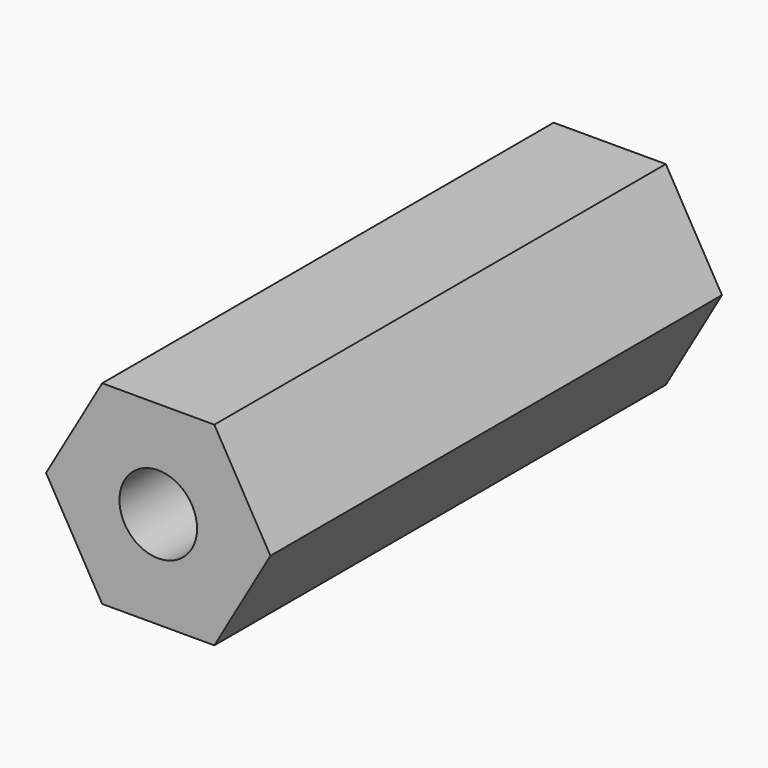
from build123d import *

# Parameters (mm, degrees)
SKETCH_R  = 1.1
PAD_DEPTH = 16


with BuildPart() as part:
    # Sketch → Pad (new body)
    with BuildSketch(Plane.XZ):
        Polygon((-1.59, -2.753961), (1.59, -2.753961), (3.18, 0), (1.59, 2.753961), (-1.59, 2.753961), (-3.18, 0), align=None)
        Circle(SKETCH_R, mode=Mode.SUBTRACT)
    extrude(amount=PAD_DEPTH)


solid = part.part
